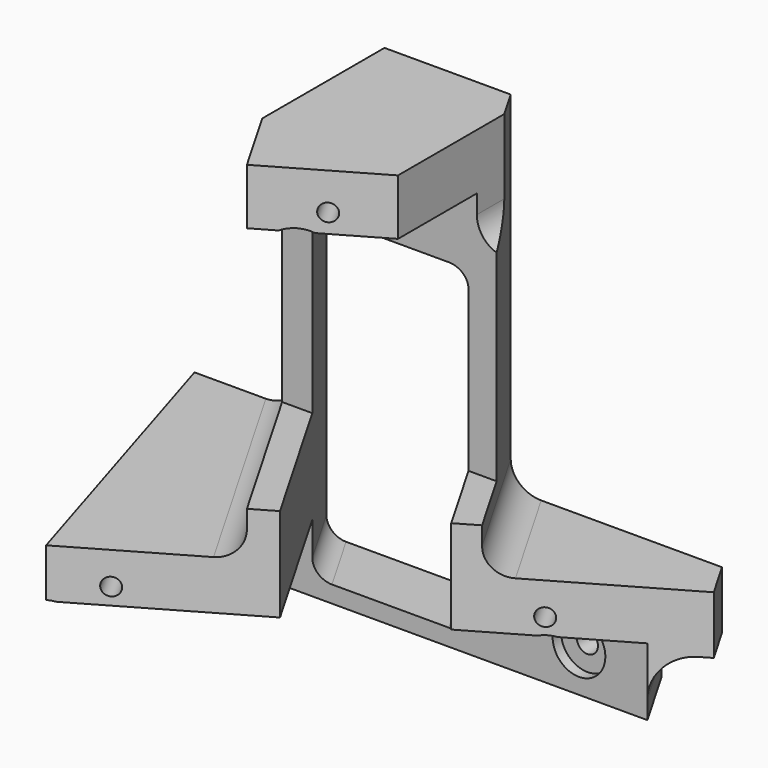
from build123d import *

# Parameters (mm, degrees)
PAD_DEPTH         = 88
SKETCH001_R       = 2
POCKET_DEPTH      = 0.001
POCKET_DEPTH_BACK = 57.033261
SKETCH002_R       = 5
POCKET001_DEPTH   = 47.033261
SKETCH003_R       = 1.65
POCKET002_DEPTH   = 28
POCKET003_DEPTH   = 58.134580172
POCKET004_DEPTH   = 45.033261


with BuildPart() as part:
    # Sketch → Pad (new body)
    with BuildSketch(Plane.XY):
        Polygon((0, 0), (-50, 0), (-32.5156133784, -57.032261), (54.086927, -7.032261), (50, 0), align=None)
    extrude(amount=PAD_DEPTH)

    # Sketch001 → Pocket (cut, two sides)
    with BuildSketch(Plane.XZ) as pocket_sk:
        with Locations((-32.5, 8)):
            Circle(SKETCH001_R)
        with Locations((32.5, 8)):
            Circle(SKETCH001_R)
        with Locations((0, 73)):
            Circle(SKETCH001_R)
        with BuildLine():
            ThreePointArc((-31.448877, 94.382629), (-35.5661724156, 92.6771893986), (-37.2716120171, 88.5598939829))
            Line((-37.2716120171, 75.5089300171), (-37.2716120171, 88.5598939829))
            ThreePointArc((-37.2716120171, 75.5089300171), (-35.5661724156, 71.3916346014), (-31.448877, 69.686195))
            Line((-19.8034130171, 69.686195), (-31.448877, 69.686195))
            ThreePointArc((-19.8034130171, 69.686195), (-15.6861176014, 71.3916346014), (-13.980678, 75.5089300171))
            Line((-13.980678, 88.5598939829), (-13.980678, 75.5089300171))
            ThreePointArc((-13.980678, 88.5598939829), (-15.6861176014, 92.6771893986), (-19.8034130171, 94.382629))
            Line((-31.448877, 94.382629), (-19.8034130171, 94.382629))
        make_face()
        with BuildLine():
            ThreePointArc((18.49613, 98.398308), (14.6982792772, 96.8251867228), (13.125158, 93.027336))
            Line((13.125158, 73.852471), (13.125158, 93.027336))
            ThreePointArc((13.125158, 73.852471), (14.6982792772, 70.0546202772), (18.49613, 68.481499))
            Line((29.238075, 68.481499), (18.49613, 68.481499))
            ThreePointArc((29.238075, 68.481499), (33.0359257228, 70.0546202772), (34.609047, 73.852471))
            Line((34.609047, 93.027336), (34.609047, 73.852471))
            ThreePointArc((34.609047, 93.027336), (33.0359257228, 96.8251867228), (29.238075, 98.398308))
            Line((18.49613, 98.398308), (29.238075, 98.398308))
        make_face()
    extrude(amount=-POCKET_DEPTH, mode=Mode.SUBTRACT)
    extrude(pocket_sk.sketch, amount=POCKET_DEPTH_BACK, mode=Mode.SUBTRACT)

    # Sketch002 → Pocket001 (cut, through all)
    with BuildSketch(Plane.XZ.offset(10)):
        with Locations((-32.5, 8)):
            Circle(SKETCH002_R)
        with Locations((32.5, 8)):
            Circle(SKETCH002_R)
        with Locations((0, 73)):
            Circle(SKETCH002_R)
    extrude(amount=POCKET001_DEPTH, mode=Mode.SUBTRACT)

    # Sketch003 (on Face2 of Pocket001) → Pocket002 (cut)
    with BuildSketch(Plane(origin=(16.566790086, -28.6945221473, 0), x_dir=(0.8660254038, 0.5, 0), z_dir=(0.5, -0.8660254038, 0))):
        with Locations((18.0690987246, 16)):
            Circle(SKETCH003_R)
        with Locations((-46.9309012754, 16)):
            Circle(SKETCH003_R)
        with Locations((-14.4309012754, 81)):
            Circle(SKETCH003_R)
    extrude(amount=-POCKET002_DEPTH, mode=Mode.SUBTRACT)

    # Sketch004 (on Face2 of Pocket002) → Pocket003 (cut, through all)
    with BuildSketch(Plane(origin=(16.566790086, -28.6945221473, 0), x_dir=(0.8660254038, 0.5, 0), z_dir=(0.5, -0.8660254038, 0))):
        with BuildLine():
            ThreePointArc((13.6215579788, 99.375281956), (10.0860240728, 97.9108158619), (8.6215579788, 94.375281956))
            Line((8.6215579788, 27.1252926568), (8.6215579788, 94.375281956))
            ThreePointArc((8.6215579788, 27.1252926568), (10.0860240728, 23.5897587509), (13.6215579788, 22.1252926568))
            Line((44.7393771197, 22.1252926568), (13.6215579788, 22.1252926568))
            ThreePointArc((44.7393771197, 22.1252926568), (48.2749110256, 23.5897587509), (49.7393771197, 27.1252926568))
            Line((49.7393771197, 94.375281956), (49.7393771197, 27.1252926568))
            ThreePointArc((49.7393771197, 94.375281956), (48.2749110256, 97.9108158619), (44.7393771197, 99.375281956))
            Line((13.6215579788, 99.375281956), (44.7393771197, 99.375281956))
        make_face()
        with BuildLine():
            ThreePointArc((-82.3406850147, 105.6353147348), (-85.8762189206, 104.1708486408), (-87.3406850147, 100.6353147348))
            Line((-87.3406850147, 27.1252928143), (-87.3406850147, 100.6353147348))
            ThreePointArc((-87.3406850147, 27.1252928143), (-85.8762189206, 23.5897589083), (-82.3406850147, 22.1252928143))
            Line((-31.5974694977, 22.1252928143), (-82.3406850147, 22.1252928143))
            ThreePointArc((-31.5974694977, 22.1252928143), (-28.0619355917, 23.5897589083), (-26.5974694977, 27.1252928143))
            Line((-26.5974694977, 100.6353147348), (-26.5974694977, 27.1252928143))
            ThreePointArc((-26.5974694977, 100.6353147348), (-28.0619355917, 104.1708486408), (-31.5974694977, 105.6353147348))
            Line((-82.3406850147, 105.6353147348), (-31.5974694977, 105.6353147348))
        make_face()
        with BuildLine():
            ThreePointArc((-18.4163422765, 64.182594), (-20.6977909978, 63.2375869978), (-21.642798, 60.9561382765))
            Line((-21.642798, 6.4200485882), (-21.642798, 60.9561382765))
            ThreePointArc((-21.642798, 6.4200485882), (-20.6977909978, 4.1385998669), (-18.4163422765, 3.1935928646))
            Line((0.7763344118, 3.1935928646), (-18.4163422765, 3.1935928646))
            ThreePointArc((0.7763344118, 3.1935928646), (3.0577831331, 4.1385998669), (4.0027901354, 6.4200485882))
            Line((4.0027901354, 60.9561382765), (4.0027901354, 6.4200485882))
            ThreePointArc((4.0027901354, 60.9561382765), (3.0577831331, 63.2375869978), (0.7763344118, 64.182594))
            Line((-18.4163422765, 64.182594), (0.7763344118, 64.182594))
        make_face()
        with BuildLine():
            ThreePointArc((33.371799, -13.9859969869), (35.6183005855, -19.4095315824), (41.041835181, -21.6560331679))
            Line((57.2190858452, -21.6560331679), (41.041835181, -21.6560331679))
            ThreePointArc((57.2190858452, -21.6560331679), (62.6426204407, -19.4095315824), (64.8891220262, -13.9859969869))
            Line((64.8891220262, 3.485097), (64.8891220262, -13.9859969869))
            ThreePointArc((64.8891220262, 3.485097), (62.6426204407, 8.9086315955), (57.2190858452, 11.155133181))
            Line((41.041835181, 11.155133181), (57.2190858452, 11.155133181))
            ThreePointArc((41.041835181, 11.155133181), (35.6183005855, 8.9086315955), (33.371799, 3.485097))
            Line((33.371799, -13.9859969869), (33.371799, 3.485097))
        make_face()
    extrude(amount=-POCKET003_DEPTH, mode=Mode.SUBTRACT)

    # Sketch005 → Pocket004 (cut, through all)
    with BuildSketch(Plane.XZ.offset(12)):
        with BuildLine():
            ThreePointArc((-72.562921396, 12.818138604), (-85.0985797487, 7.625698901), (-90.2910194516, -4.9099594516))
            Line((-90.2910194516, -39.9313305758), (-90.2910194516, -4.9099594516))
            ThreePointArc((-90.2910194516, -39.9313305758), (-85.0985797487, -52.4669889284), (-72.562921396, -57.6594286314))
            Line((82.146623396, -57.6594286314), (-72.562921396, -57.6594286314))
            ThreePointArc((82.146623396, -57.6594286314), (94.6822817487, -52.4669889284), (99.8747214516, -39.9313305758))
            Line((99.8747214516, -4.9099594516), (99.8747214516, -39.9313305758))
            ThreePointArc((99.8747214516, -4.9099594516), (94.6822817487, 7.625698901), (82.146623396, 12.818138604))
            Line((-72.562921396, 12.818138604), (82.146623396, 12.818138604))
        make_face()
        with BuildLine():
            ThreePointArc((-53.674213, 77.4039000645), (-62.7743204587, 73.6345121361), (-66.5437083871, 64.5344046774))
            Line((-66.5437083871, 43.4490521935), (-66.5437083871, 64.5344046774))
            ThreePointArc((-66.5437083871, 43.4490521935), (-62.7743204587, 34.3489447349), (-53.674213, 30.5795568065))
            Line((56.105189, 30.5795568065), (-53.674213, 30.5795568065))
            ThreePointArc((56.105189, 30.5795568065), (65.2052964587, 34.3489447349), (68.9746843871, 43.4490521935))
            Line((68.9746843871, 64.5344046774), (68.9746843871, 43.4490521935))
            ThreePointArc((68.9746843871, 64.5344046774), (65.2052964587, 73.6345121361), (56.105189, 77.4039000645))
            Line((-53.674213, 77.4039000645), (56.105189, 77.4039000645))
        make_face()
    extrude(amount=POCKET004_DEPTH, mode=Mode.SUBTRACT)


solid = part.part
